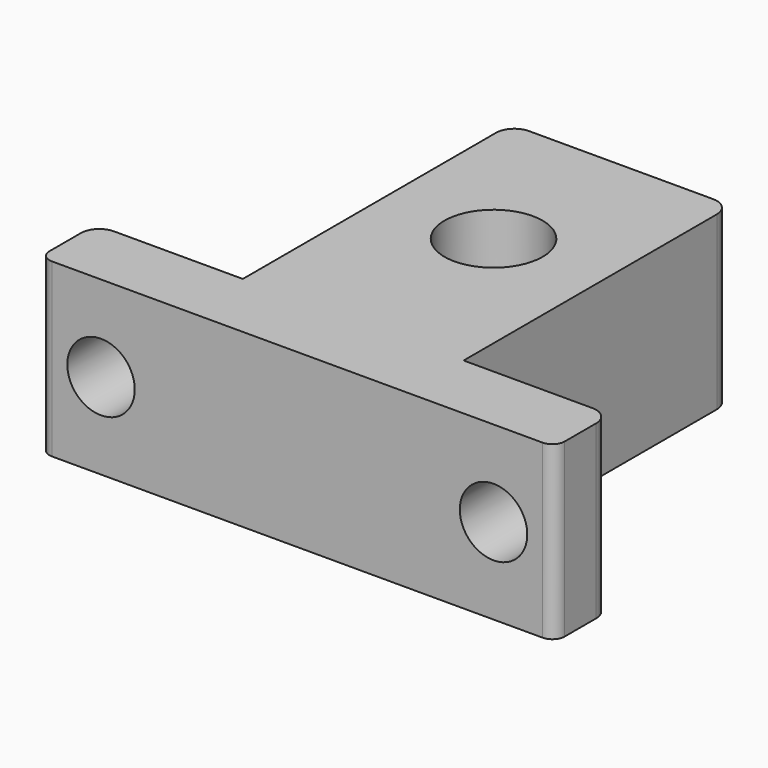
from build123d import *

# Parameters (mm, degrees)
SKETCH_R     = 4
PAD_DEPTH    = 14
SKETCH001_R  = 2.75
POCKET_DEPTH = 5.7
FILLET_R     = 1.5
FILLET001_R  = 1


with BuildPart() as part:
    # Sketch → Pad (new body)
    with BuildSketch(Plane.XY):
        Polygon((-21, 0), (21, 0), (21, 5.7), (9, 5.7), (9, 33), (-9, 33), (-9, 5.7), (-21, 5.7), align=None)
        with Locations((0, 20)):
            Circle(SKETCH_R, mode=Mode.SUBTRACT)
    extrude(amount=PAD_DEPTH)

    # Sketch001 (on Face3 of Pad) → Pocket (cut)
    with BuildSketch(Plane(origin=(0, 5.7, 0), x_dir=(-1, 0, 0), z_dir=(0, 1, 0))):
        with Locations((-16, 7)):
            Circle(SKETCH001_R)
    pocket = extrude(amount=-POCKET_DEPTH, mode=Mode.SUBTRACT)

    # Mirrored: Pocket across Sketch001 V_Axis
    add(pocket.mirror(Plane(origin=(0, 5.7, 0), x_dir=(0, 1, 0), z_dir=(-1, 0, 0))), mode=Mode.SUBTRACT)

    # Fillet
    fillet_edges = [part.edges().sort_by_distance(p)[0] for p in [
        (21, 5.7, 7),
        (-21, 5.7, 7),
        (-9, 33, 7),
        (9, 33, 7),
    ]]
    fillet(fillet_edges, radius=FILLET_R)

    # Fillet001
    fillet001_edges = [part.edges().sort_by_distance(p)[0] for p in [
        (21, 0, 7),
        (-21, 0, 7),
    ]]
    fillet(fillet001_edges, radius=FILLET001_R)


solid = part.part
